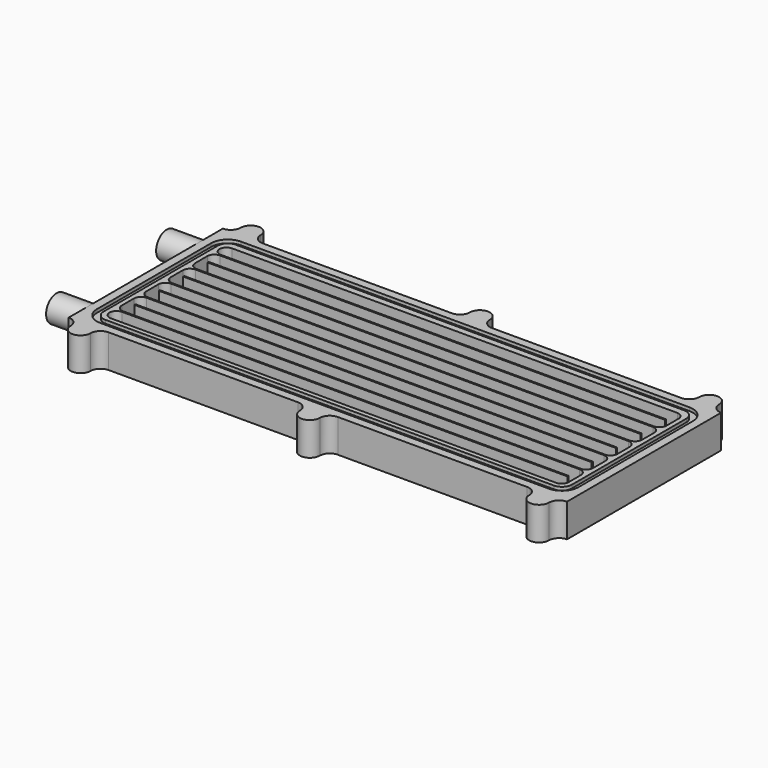
from build123d import *

# Parameters (mm, degrees)
F1_DEPTH = 10
F3_DEPTH = 1
F5_DEPTH = 8
F6_R     = 4
F6_R_2   = 2
F7_DEPTH = 10


with BuildPart() as f1:
    # F0 (on Top) → F1 (new body)
    with BuildSketch(Plane.XY):
        with BuildLine():
            ThreePointArc((66, 32), (65.12132, 29.87868), (63, 29))
            Line((63, 29), (6, 29))
            ThreePointArc((6, 29), (3.87868, 29.87868), (3, 32))
            ThreePointArc((3, 32), (0, 35), (-3, 32))
            ThreePointArc((-3, 32), (-3.87868, 29.87868), (-6, 29))
            Line((-6, 29), (-63, 29))
            ThreePointArc((-63, 29), (-65.12132, 29.87868), (-66, 32))
            ThreePointArc((-66, 32), (-69, 35), (-72, 32))
            ThreePointArc((-72, 32), (-72.87868, 29.87868), (-75, 29))
            Line((-75, 29), (-75, -29))
            ThreePointArc((-75, -29), (-72.87868, -29.87868), (-72, -32))
            ThreePointArc((-72, -32), (-69, -35), (-66, -32))
            ThreePointArc((-66, -32), (-65.12132, -29.87868), (-63, -29))
            Line((-63, -29), (-6, -29))
            ThreePointArc((-6, -29), (-3.87868, -29.87868), (-3, -32))
            ThreePointArc((-3, -32), (0, -35), (3, -32))
            ThreePointArc((3, -32), (3.87868, -29.87868), (6, -29))
            Line((6, -29), (63, -29))
            ThreePointArc((63, -29), (65.12132, -29.87868), (66, -32))
            ThreePointArc((66, -32), (69, -35), (72, -32))
            ThreePointArc((72, -32), (72.87868, -29.87868), (75, -29))
            Line((75, -29), (75, 29))
            ThreePointArc((75, 29), (72.87868, 29.87868), (72, 32))
            ThreePointArc((72, 32), (69, 35), (66, 32))
        make_face()
    extrude(amount=-F1_DEPTH)

    # F2 (on face) → F3 (cut)
    with BuildSketch(Plane.XY):
        with BuildLine():
            ThreePointArc((72.5, 21.5), (71.035534, 25.035534), (67.5, 26.5))
            Line((67.5, 26.5), (-67.5, 26.5))
            ThreePointArc((-67.5, 26.5), (-71.035534, 25.035534), (-72.5, 21.5))
            Line((-72.5, 21.5), (-72.5, -21.5))
            ThreePointArc((-72.5, -21.5), (-71.035534, -25.035534), (-67.5, -26.5))
            Line((-67.5, -26.5), (67.5, -26.5))
            ThreePointArc((67.5, -26.5), (71.035534, -25.035534), (72.5, -21.5))
            Line((72.5, -21.5), (72.5, 21.5))
        make_face()
        with BuildLine():
            Line((-67.5, 24.5), (67.5, 24.5))
            ThreePointArc((67.5, 24.5), (69.62132, 23.62132), (70.5, 21.5))
            Line((70.5, 21.5), (70.5, -21.5))
            ThreePointArc((70.5, -21.5), (69.62132, -23.62132), (67.5, -24.5))
            Line((67.5, -24.5), (-67.5, -24.5))
            ThreePointArc((-67.5, -24.5), (-69.62132, -23.62132), (-70.5, -21.5))
            Line((-70.5, -21.5), (-70.5, 21.5))
            ThreePointArc((-70.5, 21.5), (-69.62132, 23.62132), (-67.5, 24.5))
        make_face(mode=Mode.SUBTRACT)
    extrude(amount=-F3_DEPTH, mode=Mode.SUBTRACT)

    # F4 (on face) → F5 (cut)
    with BuildSketch(Plane.XY):
        with BuildLine():
            Line((67, -18.9), (-67, -18.9))
            ThreePointArc((-67, -18.9), (-69.1, -21), (-67, -23.1))
            Line((-67, -23.1), (67, -23.1))
            ThreePointArc((67, -23.1), (68.484924, -22.484924), (69.1, -21))
            Line((69.1, -21), (69.1, -16.4))
            ThreePointArc((69.1, -16.4), (68.484924, -14.915076), (67, -14.3))
            Line((67, -14.3), (-67, -14.3))
            Line((-67, -14.3), (-67, -13.9))
            Line((-67, -13.9), (67, -13.9))
            ThreePointArc((67, -13.9), (68.484924, -13.284924), (69.1, -11.8))
            Line((69.1, -11.8), (69.1, -7.2))
            ThreePointArc((69.1, -7.2), (68.484924, -5.715076), (67, -5.1))
            Line((67, -5.1), (-67, -5.1))
            Line((-67, -5.1), (-67, -4.7))
            Line((-67, -4.7), (67, -4.7))
            ThreePointArc((67, -4.7), (68.484924, -4.084924), (69.1, -2.6))
            Line((69.1, -2.6), (69.1, 2))
            ThreePointArc((69.1, 2), (68.484924, 3.484924), (67, 4.1))
            Line((67, 4.1), (-67, 4.1))
            Line((-67, 4.1), (-67, 4.5))
            Line((-67, 4.5), (67, 4.5))
            ThreePointArc((67, 4.5), (68.484924, 5.115076), (69.1, 6.6))
            Line((69.1, 6.6), (69.1, 11.2))
            ThreePointArc((69.1, 11.2), (68.484924, 12.684924), (67, 13.3))
            Line((67, 13.3), (-67, 13.3))
            Line((-67, 13.3), (-67, 13.7))
            Line((-67, 13.7), (67, 13.7))
            ThreePointArc((67, 13.7), (68.484924, 14.315076), (69.1, 15.8))
            Line((69.1, 15.8), (69.1, 20.4))
            ThreePointArc((69.1, 20.4), (68.484924, 21.884924), (67, 22.5))
            Line((67, 22.5), (-67, 22.5))
            ThreePointArc((-67, 22.5), (-69.1, 20.4), (-67, 18.3))
            Line((-67, 18.3), (67, 18.3))
            Line((67, 18.3), (67, 17.9))
            Line((67, 17.9), (-67, 17.9))
            ThreePointArc((-67, 17.9), (-68.484924, 17.284924), (-69.1, 15.8))
            Line((-69.1, 15.8), (-69.1, 11.2))
            ThreePointArc((-69.1, 11.2), (-68.484924, 9.715076), (-67, 9.1))
            Line((-67, 9.1), (67, 9.1))
            Line((67, 9.1), (67, 8.7))
            Line((67, 8.7), (-67, 8.7))
            ThreePointArc((-67, 8.7), (-68.484924, 8.084924), (-69.1, 6.6))
            Line((-69.1, 6.6), (-69.1, 2))
            ThreePointArc((-69.1, 2), (-68.484924, 0.515076), (-67, -0.1))
            Line((-67, -0.1), (67, -0.1))
            Line((67, -0.1), (67, -0.5))
            Line((67, -0.5), (-67, -0.5))
            ThreePointArc((-67, -0.5), (-68.484924, -1.115076), (-69.1, -2.6))
            Line((-69.1, -2.6), (-69.1, -7.2))
            ThreePointArc((-69.1, -7.2), (-68.484924, -8.684924), (-67, -9.3))
            Line((-67, -9.3), (67, -9.3))
            Line((67, -9.3), (67, -9.7))
            Line((67, -9.7), (-67, -9.7))
            ThreePointArc((-67, -9.7), (-68.484924, -10.315076), (-69.1, -11.8))
            Line((-69.1, -11.8), (-69.1, -16.4))
            ThreePointArc((-69.1, -16.4), (-68.484924, -17.884924), (-67, -18.5))
            Line((-67, -18.5), (67, -18.5))
            Line((67, -18.5), (67, -18.9))
        make_face()
    extrude(amount=-F5_DEPTH, mode=Mode.SUBTRACT)

    # F6 (on face) → F7 (join)
    with BuildSketch(Plane(origin=(-75, 0, 0), x_dir=(0, -1, 0), z_dir=(-1, 0, 0))):
        with Locations((-20.4, -4)):
            Circle(F6_R)
        with Locations((-20.4, -4)):
            Circle(F6_R_2, mode=Mode.SUBTRACT)
        with Locations((21, -4)):
            Circle(F6_R)
        with Locations((21, -4)):
            Circle(F6_R_2, mode=Mode.SUBTRACT)
    extrude(amount=F7_DEPTH)


solid = f1.part
